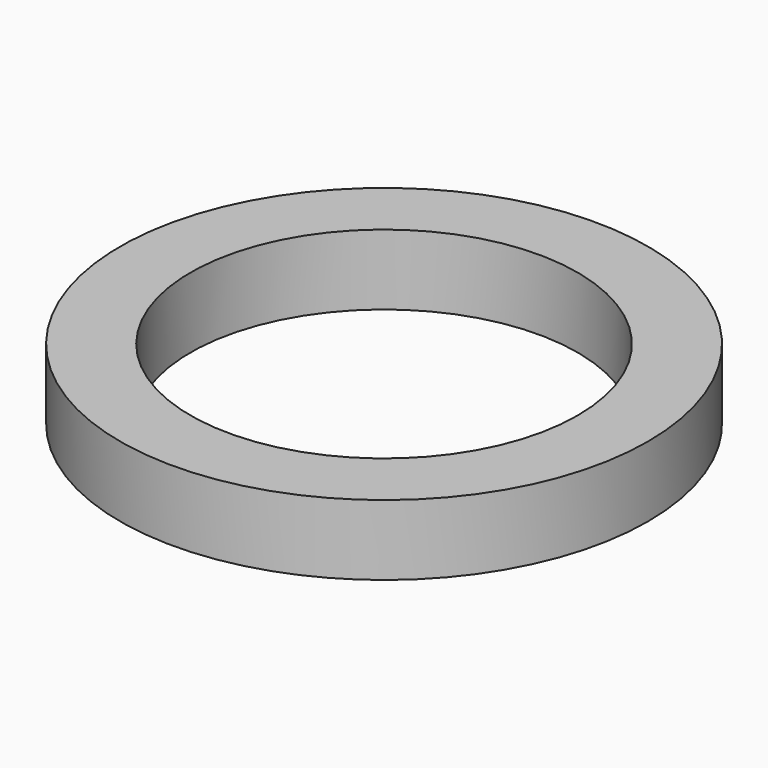
from build123d import *

# Parameters (mm, degrees)
SKETCH_R   = 37.5
SKETCH_R_2 = 27.5
PAD_DEPTH  = 10


with BuildPart() as part:
    # Sketch → Pad (new body)
    with BuildSketch(Plane.XY):
        Circle(SKETCH_R)
        Circle(SKETCH_R_2, mode=Mode.SUBTRACT)
    extrude(amount=PAD_DEPTH)


solid = part.part
